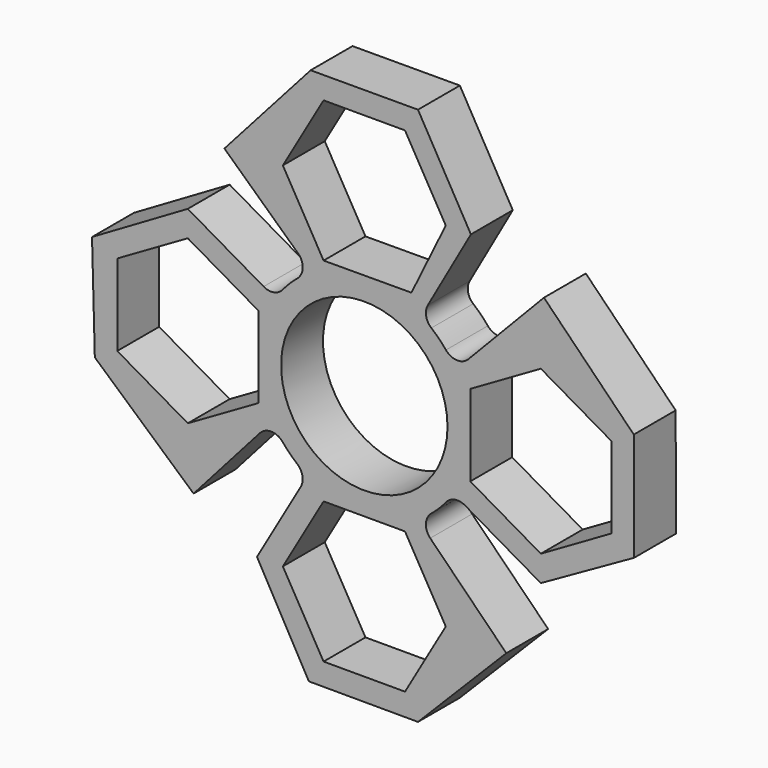
from build123d import *

# Parameters (mm, degrees)
F0_R     = 11.125
F1_DEPTH = 7


with BuildPart() as f1:
    # F0 (on Front) → F1 (new body)
    with BuildSketch(Plane.XZ):
        with BuildLine():
            Line((7.176464, 36.03), (-7.176464, 36.00459))
            Line((-7.176464, 36.00459), (-18.705031, 23.047823))
            Line((-18.705031, 23.047823), (-8.872226, 13.929126))
            ThreePointArc((-8.872226, 13.929126), (-8.233094, 12.40237), (-8.963077, 10.916908))
            ThreePointArc((-8.963077, 10.916908), (-9.987883, 9.987883), (-10.916908, 8.963077))
            ThreePointArc((-10.916908, 8.963077), (-12.104836, 8.264456), (-13.462665, 8.500134))
            Line((-13.462665, 8.500134), (-23.6, 14.352928))
            Line((-23.6, 14.352928), (-36.404543, 6.874131))
            Line((-36.404543, 6.874131), (-36.03, -7.176464))
            Line((-36.03, -7.176464), (-22.824744, -18.912232))
            Line((-22.824744, -18.912232), (-13.959667, -8.905918))
            ThreePointArc((-13.959667, -8.905918), (-12.425101, -8.232538), (-10.916908, -8.963077))
            ThreePointArc((-10.916908, -8.963077), (-9.987883, -9.987883), (-8.963077, -10.916908))
            ThreePointArc((-8.963077, -10.916908), (-8.264456, -12.104836), (-8.500134, -13.462665))
            Line((-8.500134, -13.462665), (-14.352928, -23.6))
            Line((-14.352928, -23.6), (-7.413959, -36.001418))
            Line((-7.413959, -36.001418), (7.176464, -36.03))
            Line((7.176464, -36.03), (18.982723, -24.100019))
            Line((18.982723, -24.100019), (8.813928, -13.872823))
            ThreePointArc((8.813928, -13.872823), (8.234726, -12.361877), (8.963077, -10.916908))
            ThreePointArc((8.963077, -10.916908), (9.987883, -9.987883), (10.916908, -8.963077))
            ThreePointArc((10.916908, -8.963077), (12.104836, -8.264456), (13.462665, -8.500134))
            Line((13.462665, -8.500134), (23.6, -14.352928))
            Line((23.6, -14.352928), (36.071911, -7.315997))
            Line((36.071911, -7.315997), (36.03, 7.176464))
            Line((36.03, 7.176464), (24.017932, 19.385856))
            Line((24.017932, 19.385856), (13.90576, 8.847456))
            ThreePointArc((13.90576, 8.847456), (12.385354, 8.23368), (10.916908, 8.963077))
            ThreePointArc((10.916908, 8.963077), (9.987883, 9.987883), (8.963077, 10.916908))
            ThreePointArc((8.963077, 10.916908), (8.26625, 12.095108), (8.490328, 13.445484))
            Line((8.490328, 13.445484), (14.252684, 23.658151))
            Line((14.252684, 23.658151), (7.176464, 36.03))
        make_face()
        Polygon((5.444413, -33.03), (-5.444413, -33.03), (-10.888826, -23.6), (-5.444413, -14.17), (5.444413, -14.17), (10.888826, -23.6), align=None, mode=Mode.SUBTRACT)
        Polygon((-33.03, -5.444413), (-33.03, 5.444413), (-23.6, 10.888826), (-14.17, 5.444413), (-14.17, -5.444413), (-23.6, -10.888826), align=None, mode=Mode.SUBTRACT)
        Circle(F0_R, mode=Mode.SUBTRACT)
        Polygon((33.03, 5.444413), (33.03, -5.444413), (23.6, -10.888826), (14.17, -5.444413), (14.17, 5.444413), (23.6, 10.888826), align=None, mode=Mode.SUBTRACT)
        Polygon((-10.888826, 23.6), (-5.444413, 33.03), (5.444413, 33.03), (10.888826, 23.6), (6.300824, 14.207265), (-5.444413, 14.17), align=None, mode=Mode.SUBTRACT)
    extrude(amount=F1_DEPTH)


solid = f1.part
